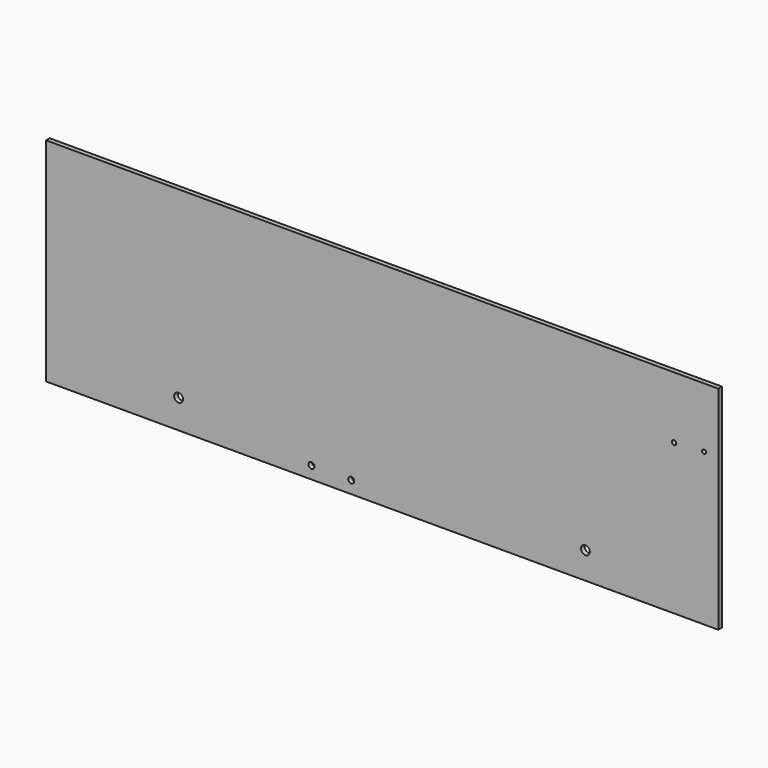
from build123d import *

# Parameters (mm, degrees)
F0_W     = 482.6
F0_H     = 152.4
F1_DEPTH = 3.2766
F4_D     = 3.175
F6_D     = 4.318
F8_D     = 4.318
F10_D    = 2.921
F11_D    = 6.35


with BuildPart() as f1:
    # F0 (on Front) → F1 (new body)
    with BuildSketch(Plane.XZ):
        with Locations((13.762098, -30.967272)):
            Rectangle(F0_W, F0_H)
    extrude(amount=F1_DEPTH)

    # F4 (through all)
    with Locations(Plane.XZ.offset(3.2766)):
        with Locations((223.312098, 0.782728)):
            Hole(F4_D / 2)

    # F6 (through all)
    with Locations(Plane.XZ.offset(3.2766)):
        with Locations((-8.462902, -98.277272)):
            Hole(F6_D / 2)

    # F8 (through all)
    with Locations(Plane.XZ.offset(3.2766)):
        with Locations((-37.037902, -98.277272)):
            Hole(F8_D / 2)

    # F10 (through all)
    with Locations(Plane.XZ.offset(3.2766)):
        with Locations((244.902098, 2.052728)):
            Hole(F10_D / 2)

    # F11 (through all)
    with Locations(Plane.XZ.offset(3.2766)):
        with Locations((-132.414902, -86.517072), (159.659698, -87.863272)):
            Hole(F11_D / 2)


solid = f1.part
